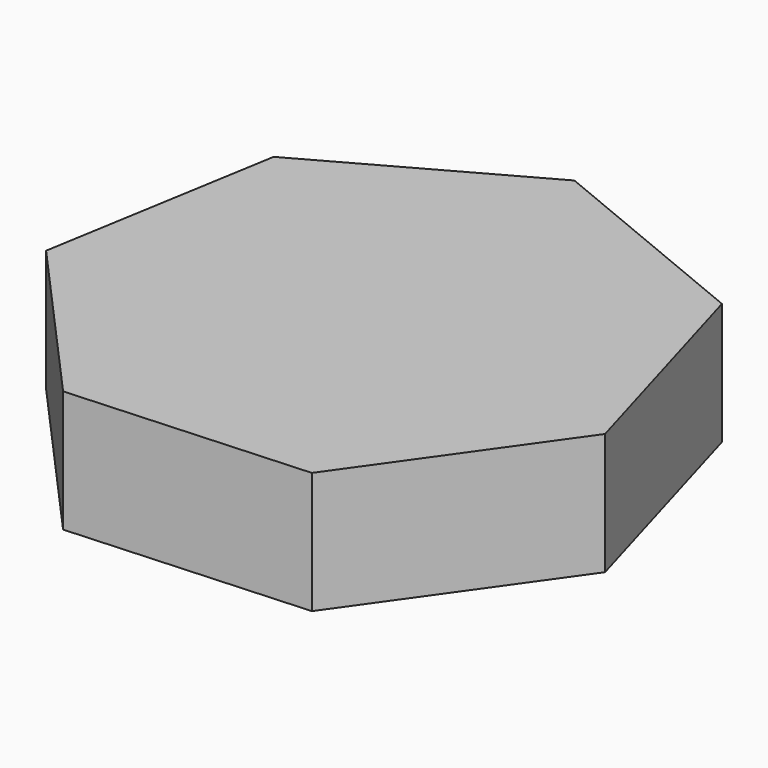
from build123d import *

# Parameters (mm, degrees)
F1_DEPTH = 25.4


with BuildPart() as f1:
    # F0 (on Top) → F1 (new body)
    with BuildSketch(Plane.XY):
        Polygon((-46.771169, 33.100346), (-55.04024, -15.929444), (-21.862887, -52.964038), (27.777665, -50.115631), (56.501069, -9.529132), (42.678016, 38.232998), (-3.282454, 57.204901), align=None)
    extrude(amount=-F1_DEPTH)


solid = f1.part
